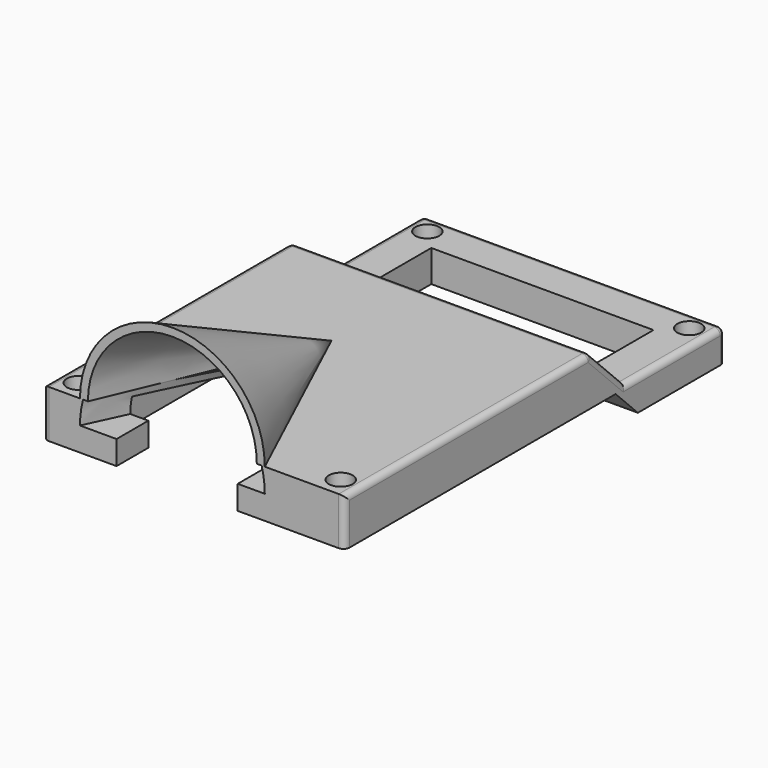
from build123d import *

# Parameters (mm, degrees)
SKETCH002_W     = 37.94
SKETCH002_H     = 59.784
SKETCH002_R     = 1
SKETCH002_W_2   = 27.94
SKETCH002_H_2   = 49.784
PAD_DEPTH       = 10
POCKET_DEPTH    = 37.94
POCKET001_DEPTH = 37.94
PAD001_DEPTH    = 27.94
SKETCH005_W     = 33.575
SKETCH005_H     = 1
PAD002_DEPTH    = 27.94
SKETCH006_R     = 1.5
POCKET002_DEPTH = 2
SKETCH007_R     = 1.5
POCKET003_DEPTH = 2
SKETCH008_W     = 15.24
SKETCH008_H     = 5
POCKET004_DEPTH = 6
CONE_ANGLE      = 180
CONE001_ANGLE   = 180
CONE002_ANGLE   = 180
FILLET_R        = 0.75


with BuildPart() as part:
    # Sketch002 → Pad (new body)
    with BuildSketch(Plane.XY):
        Rectangle(SKETCH002_W, SKETCH002_H)
        with Locations((-16.47, 27.392)):
            Circle(SKETCH002_R, mode=Mode.SUBTRACT)
        with Locations((16.47, 27.392)):
            Circle(SKETCH002_R, mode=Mode.SUBTRACT)
        with Locations((-16.47, -27.392)):
            Circle(SKETCH002_R, mode=Mode.SUBTRACT)
        with Locations((16.47, -27.392)):
            Circle(SKETCH002_R, mode=Mode.SUBTRACT)
        Rectangle(SKETCH002_W_2, SKETCH002_H_2, mode=Mode.SUBTRACT)
    extrude(amount=PAD_DEPTH)

    # Sketch (on Face2 of Pad) → Pocket (cut)
    with BuildSketch(Plane.YZ.offset(18.97)):
        Polygon((8.683, 10), (29.892, 10), (29.892, 4.5), (14.183, 4.5), align=None)
        Polygon((-29.892, 4), (12.692, 4), (16.692, 0), (-29.892, 0), align=None)
    extrude(amount=-POCKET_DEPTH, mode=Mode.SUBTRACT)

    # Sketch003 (on Face3 of Pocket) → Pocket001 (cut)
    with BuildSketch(Plane.YZ.offset(18.97)):
        Polygon((16.192, 0.5), (29.892, 0.5), (29.892, 0), (16.692, 0), align=None)
    extrude(amount=-POCKET001_DEPTH, mode=Mode.SUBTRACT)

    # Sketch004 (on Face7 of Pocket001) → Pad001 (join)
    with BuildSketch(Plane.YZ.offset(-13.97)):
        Polygon((11.692, 7), (12.692, 6), (12.692, 4), (11.692, 4), align=None)
        Polygon((8.683, 10), (11.683, 7), (11.683, 6), (8.683, 9), align=None)
    extrude(amount=PAD001_DEPTH)

    # Sketch005 (on Face22 of Pad001) → Pad002 (join)
    with BuildSketch(Plane.YZ.offset(-13.97)):
        with Locations((-8.1045, 9.5)):
            Rectangle(SKETCH005_W, SKETCH005_H)
    extrude(amount=PAD002_DEPTH)

    # Sketch006 (on Face15 of Pad002) → Pocket002 (cut)
    with BuildSketch(Plane.XY.offset(10)):
        with Locations((-16.47, -27.392)):
            Circle(SKETCH006_R)
        with Locations((16.47, -27.392)):
            Circle(SKETCH006_R)
    extrude(amount=-POCKET002_DEPTH, mode=Mode.SUBTRACT)

    # Sketch007 (on Face4 of Pocket002) → Pocket003 (cut)
    with BuildSketch(Plane.XY.offset(4.5)):
        with Locations((-16.47, 27.392)):
            Circle(SKETCH007_R)
        with Locations((16.47, 27.392)):
            Circle(SKETCH007_R)
    extrude(amount=-POCKET003_DEPTH, mode=Mode.SUBTRACT)

    # Sketch008 (on Face15 of Pocket003) → Pocket004 (cut)
    with BuildSketch(Plane.XY.offset(10)):
        with Locations((-2.1, -27.392)):
            Rectangle(SKETCH008_W, SKETCH008_H)
    extrude(amount=-POCKET004_DEPTH, mode=Mode.SUBTRACT)

    # Cone → Cone (revolve, cut)
    with BuildSketch(Plane(origin=(-2.7, -4.892, 7), x_dir=(1, 0, 0), z_dir=(0, 0, -1))):
        Polygon((0, 0), (11.62, 25), (0, 25), align=None)
    revolve(axis=Axis((-2.7, -4.892, 7), (0, -1, 0)), revolution_arc=CONE_ANGLE, mode=Mode.SUBTRACT)

    # Cone001 → Cone001 (revolve)
    with BuildSketch(Plane(origin=(-2.7, -4.892, 10), x_dir=(1, 0, 0), z_dir=(0, 0, -1))):
        Polygon((0, 0), (11.62, 25), (0, 25), align=None)
    revolve(axis=Axis((-2.7, -4.892, 10), (0, -1, 0)), revolution_arc=CONE001_ANGLE)

    # Cone002 → Cone002 (revolve, cut)
    with BuildSketch(Plane(origin=(-2.7, -4.892, 10), x_dir=(1, 0, 0), z_dir=(0, 0, -1))):
        Polygon((0, 0), (10.62, 25), (0, 25), align=None)
    revolve(axis=Axis((-2.7, -4.892, 10), (0, -1, 0)), revolution_arc=CONE002_ANGLE, mode=Mode.SUBTRACT)

    # Fillet
    fillet_edges = [part.edges().sort_by_distance(p)[0] for p in [
        (-18.97, -29.892, 7),
        (18.97, -29.892, 7),
        (18.97, -10.6045, 10),
        (18.97, 11.433, 7.25),
        (18.97, 22.0375, 4.5),
        (0, 29.892, 4.5),
        (-18.97, 29.892, 2.5),
        (-18.97, 22.0375, 4.5),
        (18.97, 29.892, 2.5),
        (-18.97, 11.433, 7.25),
        (-18.97, -10.6045, 10),
        (-16.47, 8.683, 10),
        (0, 8.683, 10),
        (16.47, 8.683, 10),
    ]]
    fillet(fillet_edges, radius=FILLET_R)


solid = part.part
